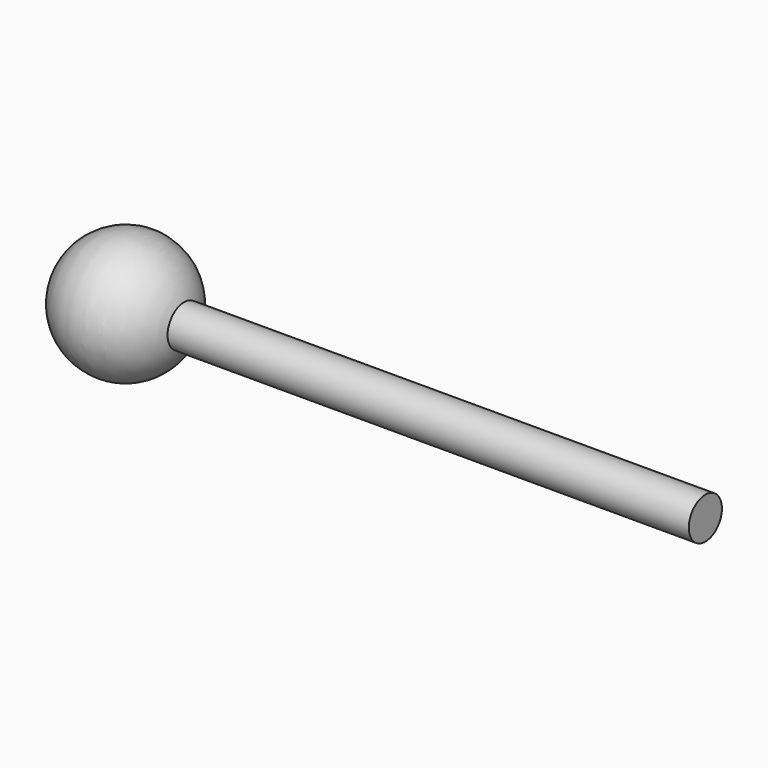
from build123d import *


with BuildPart() as f1:
    # F0 (on Front) → F1 (revolve)
    with BuildSketch(Plane.XZ):
        with BuildLine():
            ThreePointArc((17.960512, 6.35), (18.775653, 3.221393), (19.05, 0))
            Line((19.05, 0), (177.8, 0))
            Line((177.8, 0), (177.8, 6.35))
            Line((177.8, 6.35), (17.960512, 6.35))
        make_face()
    revolve(axis=Axis((98.425, 0, 0), (1, 0, 0)))

    # F0 (on Front) → F2 (revolve)
    with BuildSketch(Plane.XZ):
        with BuildLine():
            Line((-19.05, 0), (19.05, 0))
            ThreePointArc((19.05, 0), (18.775653, 3.221393), (17.960512, 6.35))
            ThreePointArc((17.960512, 6.35), (-3.221393, 18.775653), (-19.05, 0))
        make_face()
    revolve(axis=Axis((98.425, 0, 0), (1, 0, 0)))


solid = f1.part
